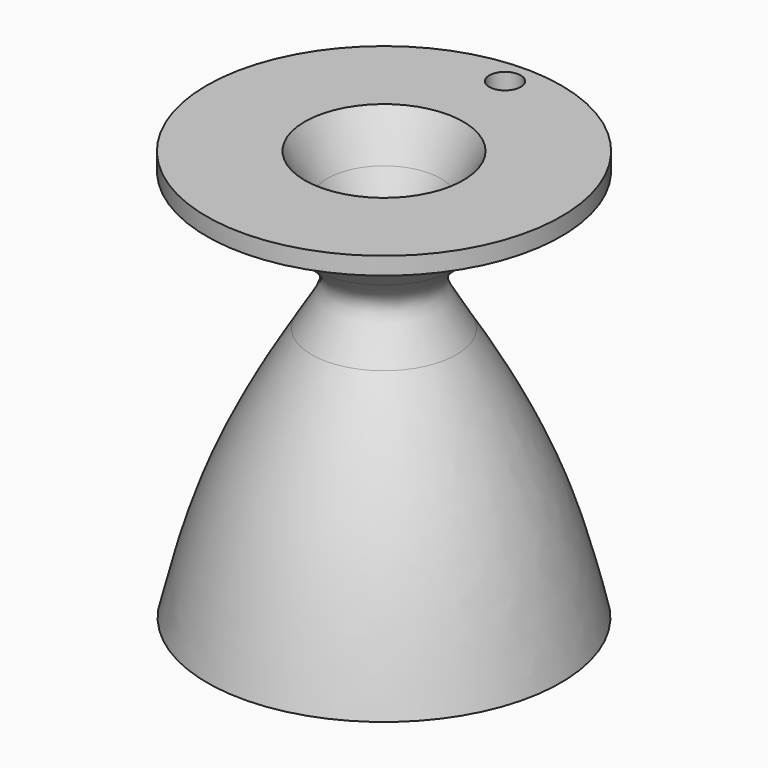
from build123d import *

# Parameters (mm, degrees)
F4_D     = 6.35
F4_DEPTH = 12.7
F4_TIP   = 1.9077324654


with BuildPart() as f1:
    # F0 (on Front) → F1 (revolve)
    with BuildSketch(Plane.XZ):
        with BuildLine():
            add(Edge.make_bspline(
                [(-35.711620003, 0), (-33.6991355754, 8.3739323563), (-29.3174594603, 25.4988872735), (-19.6445835619, 43.3868067126), (-14.6126173957, 51.4680505725)],
                knots=[0, 0, 0, 0, 0.4850144004, 1, 1, 1, 1], degree=3))
            Line((-35.711620003, 0), (-31.3956774771, 0))
            add(Edge.make_bspline(
                [(-31.3956774771, 0), (-29.3449089655, 7.9159356711), (-25.0874906142, 24.3495041979), (-16.1110445435, 41.0247078901), (-11.4584900439, 49.6675819159)],
                knots=[0, 0, 0, 0, 0.4816930958, 1, 1, 1, 1], degree=3))
            add(Edge.make_bspline(
                [(-11.4584900439, 49.6675819159), (-9.2111257589, 52.9541958774), (-3.7759486318, 61.5209078018), (-9.2010886072, 69.393788099), (-11.4584900439, 74.3316113949)],
                knots=[0, 0, 0, 0, 0.4840360956, 1, 1, 1, 1], degree=3))
            Line((-11.4584900439, 74.3316113949), (-16.0165019333, 82.9376876354))
            Line((-16.0165019333, 82.9376876354), (-35.8239077032, 82.9376876354))
            Line((-35.8239077032, 82.9376876354), (-35.8239077032, 79.4118791819))
            Line((-35.8239077032, 79.4118791819), (-22.5325617939, 79.4118791819))
            Line((-22.5325617939, 79.4118791819), (-22.5325617939, 73.6162364483))
            Line((-22.5325617939, 73.6162364483), (-14.6126173957, 66.6863429164))
            add(Edge.make_bspline(
                [(-14.6126173957, 51.4680505725), (-12.1953186939, 55.8042941924), (-8.853870956, 59.7288834218), (-10.7295096303, 63.5019995765), (-14.6126173957, 66.6863429164)],
                knots=[0, 0, 0, 0, 0.5184258095, 1, 1, 1, 1], degree=3))
        make_face()
    revolve(axis=Axis((0, 0, 6.4593851566), (0, 0, 1)))

    # F4
    with Locations(Plane.XY.offset(82.9376876354)):
        with Locations((0, 30.5442549288)):
            Hole(F4_D / 2, depth=F4_DEPTH)
            with Locations((0, 0, -(F4_DEPTH + F4_TIP / 2))):  # 118° drill point
                Cone(0, F4_D / 2, F4_TIP, mode=Mode.SUBTRACT)


solid = f1.part
